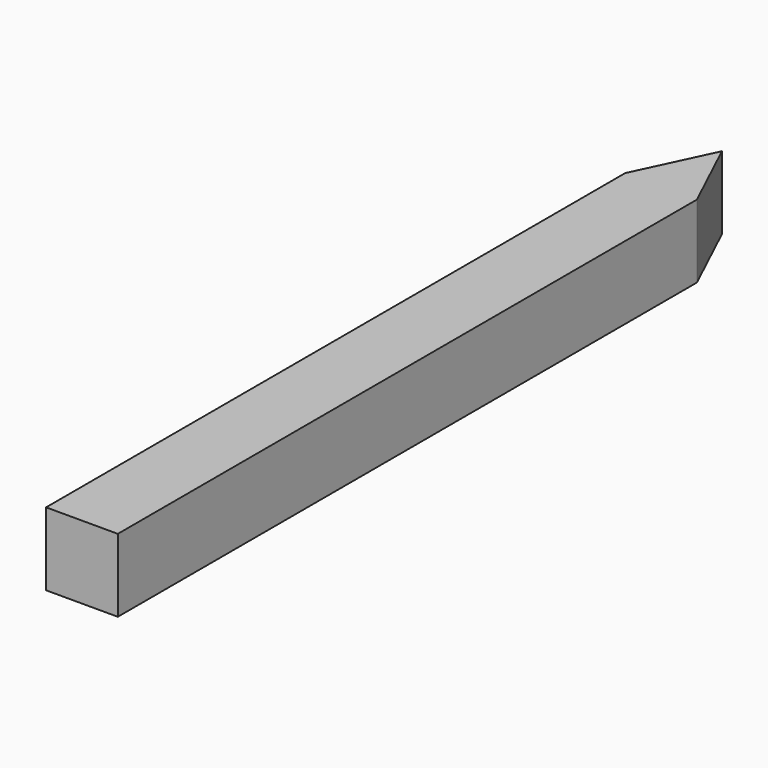
from build123d import *

# Parameters (mm, degrees)
F0_W     = 55
F0_H     = 555
F1_DEPTH = 56


with BuildPart() as f1:
    # F0 (on Top) → F1 (new body)
    with BuildSketch(Plane.XY):
        with Locations((-27.5, 277.5)):
            Rectangle(F0_W, F0_H)
        Polygon((-55, 555), (0, 555), (-27.5, 613.364637), align=None)
    extrude(amount=F1_DEPTH)


solid = f1.part
